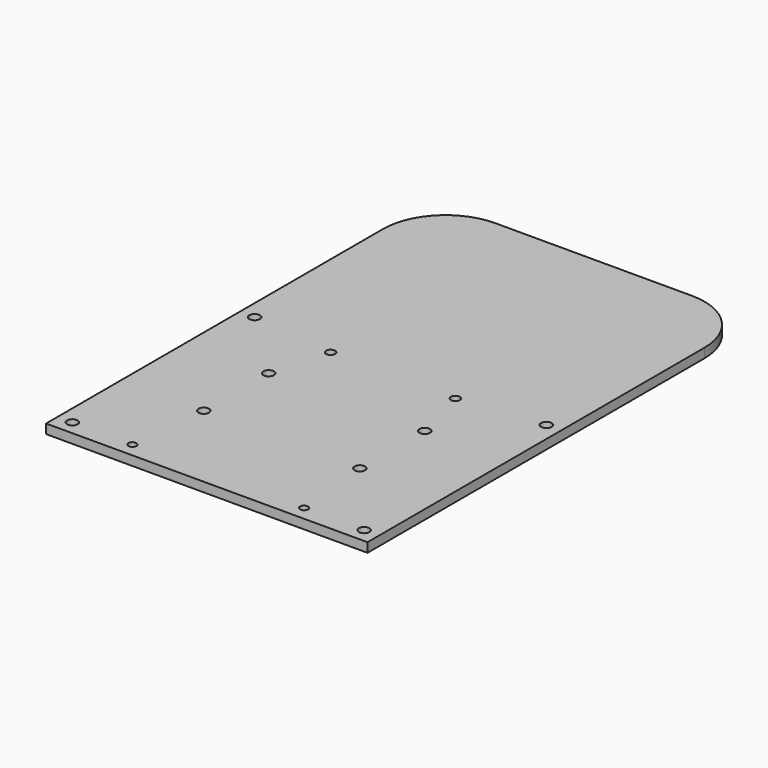
from build123d import *

# Parameters (mm, degrees)
SKETCH_W   = 103
SKETCH_H   = 155
SKETCH_R   = 1.275
SKETCH_R_2 = 1.45
SKETCH_R_3 = 1.7
PAD_DEPTH  = 3
FILLET_R   = 20


with BuildPart() as part:
    # Sketch → Pad (new body)
    with BuildSketch(Plane.XY):
        Rectangle(SKETCH_W, SKETCH_H)
        with Locations((-27.5, -72.91422)):
            Circle(SKETCH_R, mode=Mode.SUBTRACT)
        with Locations((27.5, -72.91422)):
            Circle(SKETCH_R, mode=Mode.SUBTRACT)
        with Locations((-20, -2.91422)):
            Circle(SKETCH_R_2, mode=Mode.SUBTRACT)
        with Locations((20, -2.91422)):
            Circle(SKETCH_R_2, mode=Mode.SUBTRACT)
        with Locations((-46.75, 0.08578)):
            Circle(SKETCH_R_3, mode=Mode.SUBTRACT)
        with Locations((-46.75, -72.91422)):
            Circle(SKETCH_R_3, mode=Mode.SUBTRACT)
        with Locations((46.75, -72.91422)):
            Circle(SKETCH_R_3, mode=Mode.SUBTRACT)
        with Locations((46.75, 0.08578)):
            Circle(SKETCH_R_3, mode=Mode.SUBTRACT)
        with Locations((-25, -21.442924)):
            Circle(SKETCH_R_3, mode=Mode.SUBTRACT)
        with Locations((-25, -47.442924)):
            Circle(SKETCH_R_3, mode=Mode.SUBTRACT)
        with Locations((25, -21.442924)):
            Circle(SKETCH_R_3, mode=Mode.SUBTRACT)
        with Locations((25, -47.442924)):
            Circle(SKETCH_R_3, mode=Mode.SUBTRACT)
    extrude(amount=PAD_DEPTH)

    # Fillet
    fillet_edges = [part.edges().sort_by_distance(p)[0] for p in [
        (-51.5, 77.5, 1.5),
        (51.5, 77.5, 1.5),
    ]]
    fillet(fillet_edges, radius=FILLET_R)


solid = part.part
